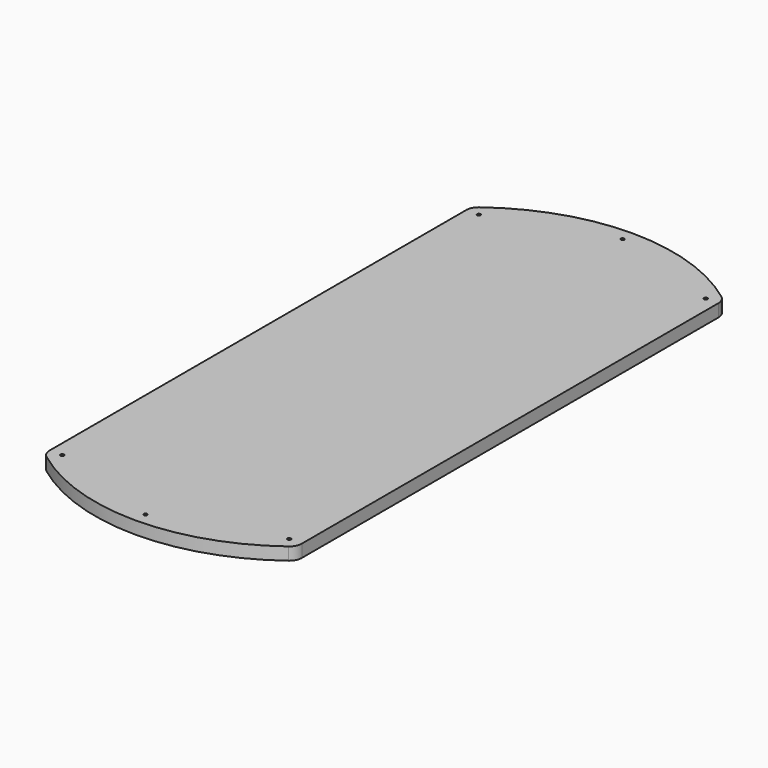
from build123d import *

# Parameters (mm, degrees)
F0_R     = 1.7272
F1_DEPTH = 12.7


with BuildPart() as f1:
    # F0 (on Top) → F1 (new body)
    with BuildSketch(Plane.XY):
        with BuildLine():
            Line((127, -262.221193), (127, 262.221193))
            ThreePointArc((127, 262.221193), (125.659225, 267.900805), (121.92, 272.381193))
            ThreePointArc((121.92, 272.381193), (0, 313.021193), (-121.92, 272.381193))
            ThreePointArc((-121.92, 272.381193), (-125.659225, 267.900805), (-127, 262.221193))
            Line((-127, 262.221193), (-127, -262.221193))
            ThreePointArc((-127, -262.221193), (-125.659225, -267.900805), (-121.92, -272.381193))
            ThreePointArc((-121.92, -272.381193), (0, -313.021193), (121.92, -272.381193))
            ThreePointArc((121.92, -272.381193), (125.659225, -267.900805), (127, -262.221193))
        make_face()
        with Locations((-114.3, -262.221193)):
            Circle(F0_R, mode=Mode.SUBTRACT)
        with Locations((0, -300.321193)):
            Circle(F0_R, mode=Mode.SUBTRACT)
        with Locations((114.3, -262.221193)):
            Circle(F0_R, mode=Mode.SUBTRACT)
        with Locations((-114.3, 262.221193)):
            Circle(F0_R, mode=Mode.SUBTRACT)
        with Locations((0, 300.321193)):
            Circle(F0_R, mode=Mode.SUBTRACT)
        with Locations((114.3, 262.221193)):
            Circle(F0_R, mode=Mode.SUBTRACT)
    extrude(amount=F1_DEPTH)


solid = f1.part
